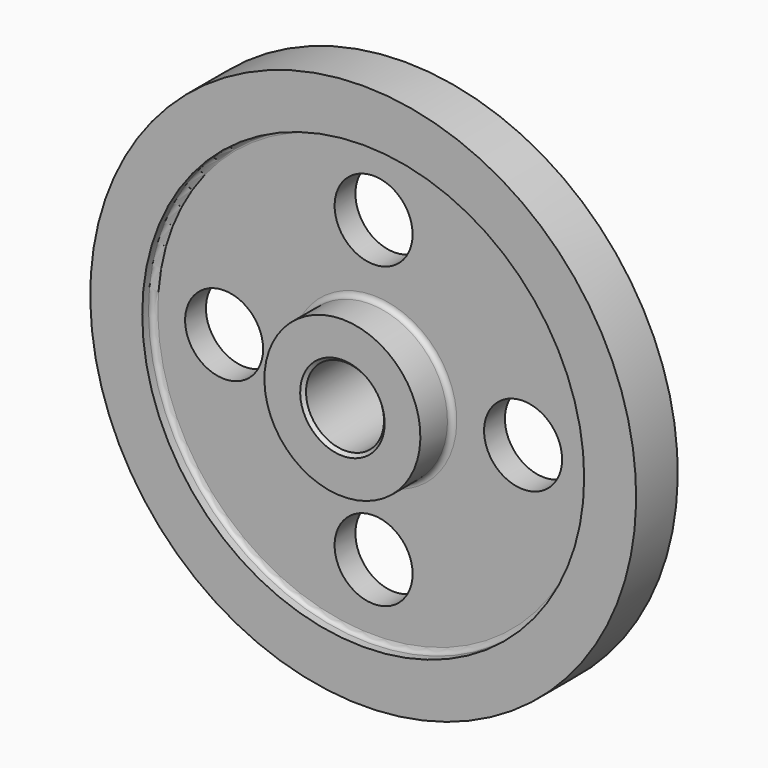
from build123d import *

# Parameters (mm, degrees)
F2_R     = 19.05
F3_DEPTH = 25.4
F4_R     = 2.54
F5_R     = 2.54
F6_SIZE  = 1.5875


with BuildPart() as f1:
    # F0 (on Right) → F1 (revolve)
    with BuildSketch(Plane.YZ):
        Polygon((0, 19.05), (6.35, 19.05), (25.4, 19.05), (25.4, 38.1), (6.35, 38.1), (6.35, 107.95), (12.7, 107.95), (12.7, 133.35), (0, 133.35), (-12.7, 133.35), (-12.7, 107.95), (-6.35, 107.95), (-6.35, 38.1), (-25.4, 38.1), (-25.4, 19.05), (-6.35, 19.05), align=None)
    revolve(axis=Axis((0, 47.2694, 0), (0, 1, 0)))

    # F2 (on face) → F3 (cut)
    with BuildSketch(Plane.XZ.offset(6.35)):
        with Locations((-73.025, 0)):
            Circle(F2_R)
        with Locations((0, -73.025)):
            Circle(F2_R)
        with Locations((73.025, 0)):
            Circle(F2_R)
        with BuildLine():
            ThreePointArc((19.05, 73.025), (-13.4703841816, 86.4953841816), (0, 53.975))
            ThreePointArc((0, 53.975), (13.4703841816, 59.5546158184), (19.05, 73.025))
        make_face()
    extrude(amount=-F3_DEPTH, mode=Mode.SUBTRACT)

    # F4
    f4_edges = [f1.edges().sort_by_distance(p)[0] for p in [
        (0, -6.35, -38.1),
        (0, 6.35, -38.1),
        (0, 12.7, -107.95),
        (0, -6.35, -107.95),
    ]]
    fillet(f4_edges, radius=F4_R)

    # F5
    f5_edges = [f1.edges().sort_by_distance(p)[0] for p in [
        (0, 6.35, -40.64),
        (0, 8.89, -38.1),
        (0, 12.7, -110.49),
        (0, 6.35, -107.95),
    ]]
    fillet(f5_edges, radius=F5_R)

    # F6
    f6_edges = [f1.edges().sort_by_distance(p)[0] for p in [
        (0, -25.4, -19.05),
        (0, 25.4, -19.05),
    ]]
    chamfer(f6_edges, length=F6_SIZE)


solid = f1.part
